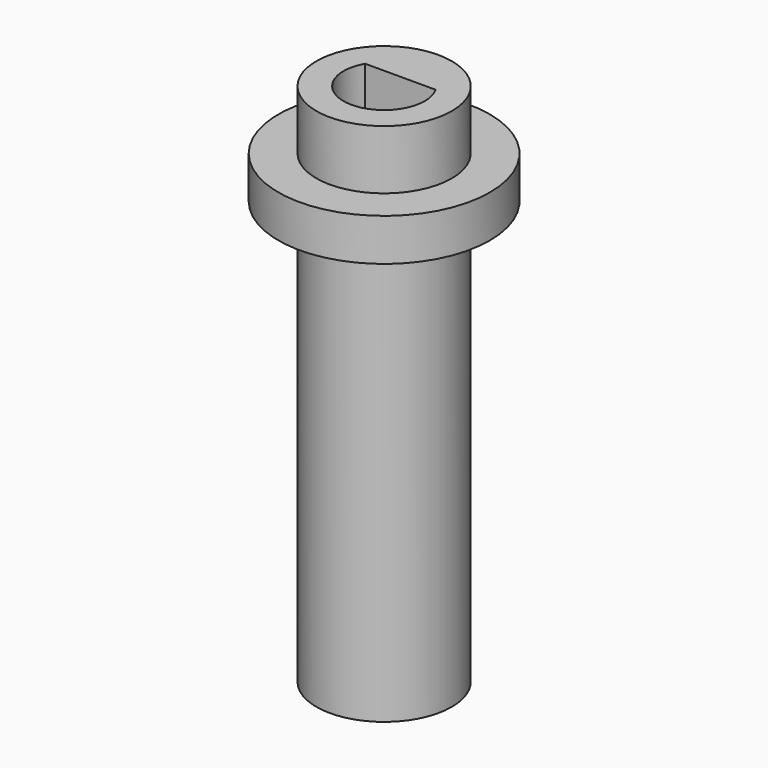
from build123d import *

# Parameters (mm, degrees)
F3_DEPTH = 7.62


with BuildPart() as f1:
    # F0 (on Front) → F1 (revolve)
    with BuildSketch(Plane.XZ):
        Polygon((5.08, 7.62), (0, 7.62), (0, -31.75), (5.08, -31.75), (5.08, 0), (7.9375, 0), (7.9375, 3.175), (5.08, 3.175), align=None)
    revolve(axis=Axis((0, 0, 1.364464), (0, 0, -1)))

    # F2 (on face) → F3 (cut)
    with BuildSketch(Plane.XY.offset(7.62)):
        with BuildLine():
            ThreePointArc((-2.639645, 1.524), (-0.78888, -2.944142), (3.048, 0))
            ThreePointArc((3.048, 0), (2.944142, 0.78888), (2.639645, 1.524))
            Line((2.639645, 1.524), (-2.639645, 1.524))
        make_face()
    extrude(amount=-F3_DEPTH, mode=Mode.SUBTRACT)


solid = f1.part
